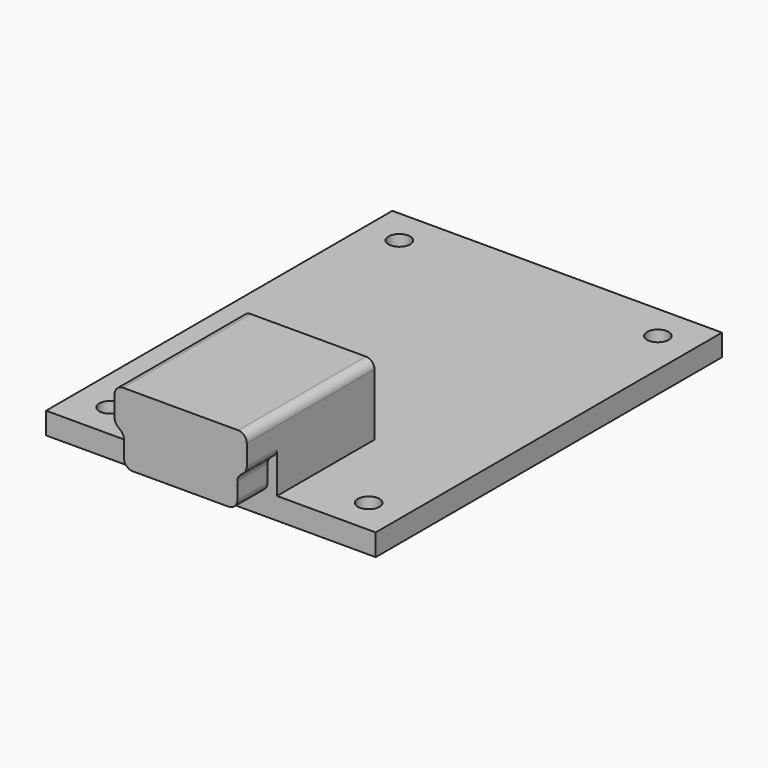
from build123d import *

# Parameters (mm, degrees)
SKETCH_W     = 19.2
SKETCH_H     = 25.21
SKETCH_R     = 0.63
PAD_DEPTH    = 0.635
SKETCH001_W  = 7.7
SKETCH001_H  = 9.3
PAD001_DEPTH = 4.1
FILLET_R     = 0.5
SKETCH002_W  = 8.550769
SKETCH002_H  = 4.773829
POCKET_DEPTH = 2.2


with BuildPart() as part:
    # Sketch → Pad (new body, symmetric)
    with BuildSketch(Plane.XY):
        Rectangle(SKETCH_W, SKETCH_H)
        with Locations((-7.53, 10.53)):
            Circle(SKETCH_R, mode=Mode.SUBTRACT)
        with Locations((7.53, 10.53)):
            Circle(SKETCH_R, mode=Mode.SUBTRACT)
        with Locations((7.53, -10.53)):
            Circle(SKETCH_R, mode=Mode.SUBTRACT)
        with Locations((-7.53, -10.53)):
            Circle(SKETCH_R, mode=Mode.SUBTRACT)
    extrude(amount=PAD_DEPTH, both=True)

    # Sketch001 → Pad001 (new body)
    with BuildSketch(Plane.XY.offset(0.635)):
        with Locations((0, -10.155)):
            Rectangle(SKETCH001_W, SKETCH001_H)
    extrude(amount=PAD001_DEPTH)

    # Fillet
    fillet_edges = [part.edges().sort_by_distance(p)[0] for p in [
        (-3.85, -10.155, 4.735),
        (3.85, -10.155, 4.735),
    ]]
    fillet(fillet_edges, radius=FILLET_R)

    # Sketch002 → Pocket (cut)
    with BuildSketch(Plane.XZ.offset(14.805)):
        with Locations((-0.025621, 2.603407)):
            Rectangle(SKETCH002_W, SKETCH002_H)
        with BuildLine():
            Line((-3.85, 4.735), (-3.85, 3.035))
            ThreePointArc((-3.85, 3.035), (-3.804161, 2.825865), (-3.675049, 2.655075))
            Line((-3.675049, 2.655075), (-3.474951, 2.483878))
            ThreePointArc((-3.3, 2.103953), (-3.345839, 2.313089), (-3.474951, 2.483878))
            Line((-3.3, 2.103953), (-3.3, 1.135))
            ThreePointArc((-3.3, 1.135), (-3.153553, 0.781447), (-2.8, 0.635))
            Line((-2.8, 0.635), (2.8, 0.635))
            ThreePointArc((2.8, 0.635), (3.153553, 0.781447), (3.3, 1.135))
            Line((3.3, 1.135), (3.3, 2.103953))
            ThreePointArc((3.474951, 2.483878), (3.345839, 2.313089), (3.3, 2.103953))
            Line((3.474951, 2.483878), (3.675049, 2.655075))
            ThreePointArc((3.675049, 2.655075), (3.804161, 2.825865), (3.85, 3.035))
            Line((3.85, 3.035), (3.85, 4.735))
            Line((3.85, 4.735), (-3.85, 4.735))
        make_face(mode=Mode.SUBTRACT)
    extrude(amount=-POCKET_DEPTH, mode=Mode.SUBTRACT)


solid = part.part
